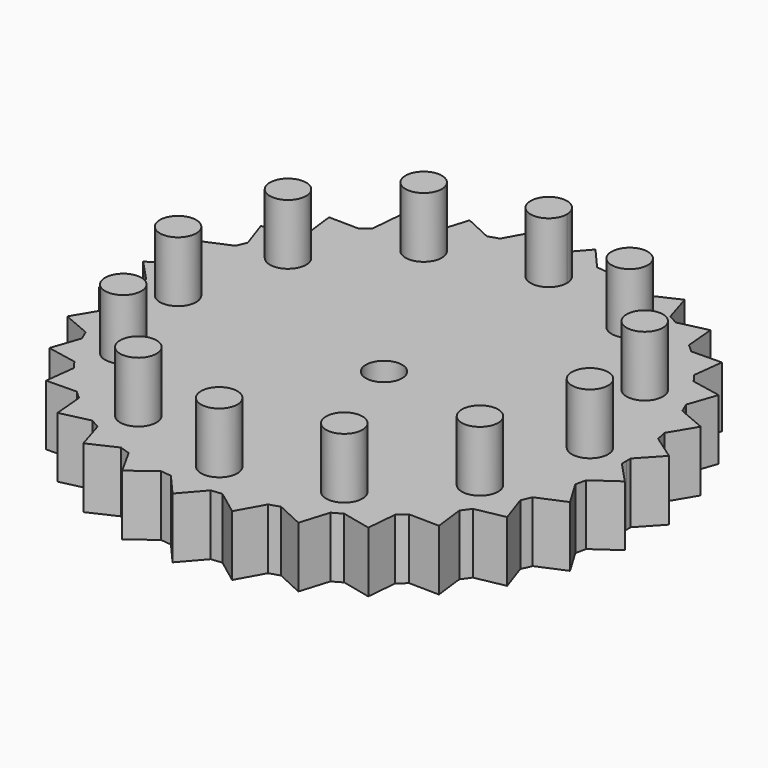
from build123d import *

# Parameters (mm, degrees)
F0_R     = 3.81
F1_DEPTH = 12.7
F2_R     = 3.81
F3_DEPTH = 12.7


with BuildPart() as f1:
    # F0 (on Top) → F1 (new body)
    with BuildSketch(Plane.XY):
        with BuildLine():
            ThreePointArc((50.787147, -1.142667), (50.796787, -0.57137), (50.8, 0))
            ThreePointArc((50.8, 0), (50.796787, 0.57137), (50.787147, 1.142667))
            ThreePointArc((50.787147, 1.142667), (50.521712, 5.310046), (49.9149, 9.441544))
            ThreePointArc((49.9149, 9.441544), (49.689898, 10.561914), (49.439752, 11.676939))
            ThreePointArc((49.439752, 11.676939), (48.313671, 15.698063), (46.861132, 19.613115))
            ThreePointArc((46.861132, 19.613115), (46.408109, 20.662221), (45.931603, 21.700872))
            ThreePointArc((45.931603, 21.700872), (43.994091, 25.4), (41.759308, 28.927499))
            ThreePointArc((41.759308, 28.927499), (41.098063, 29.859491), (40.416022, 30.776373))
            ThreePointArc((40.416022, 30.776373), (37.751757, 33.991835), (34.832402, 36.977612))
            ThreePointArc((34.832402, 36.977612), (33.991835, 37.751757), (33.134067, 38.506799))
            ThreePointArc((33.134067, 38.506799), (29.859491, 41.098063), (26.383152, 43.411626))
            ThreePointArc((26.383152, 43.411626), (25.4, 43.994091), (24.403995, 44.554293))
            ThreePointArc((24.403995, 44.554293), (20.662221, 46.408109), (16.780833, 47.948344))
            ThreePointArc((16.780833, 47.948344), (15.698063, 48.313671), (14.60735, 48.654551))
            ThreePointArc((14.60735, 48.654551), (10.561914, 49.689898), (6.44511, 50.389489))
            ThreePointArc((6.44511, 50.389489), (5.310046, 50.521712), (4.172295, 50.628371))
            ThreePointArc((4.172295, 50.628371), (0, 50.8), (-4.172295, 50.628371))
            ThreePointArc((-4.172295, 50.628371), (-5.310046, 50.521712), (-6.44511, 50.389489))
            ThreePointArc((-6.44511, 50.389489), (-10.561914, 49.689898), (-14.60735, 48.654551))
            ThreePointArc((-14.60735, 48.654551), (-15.698063, 48.313671), (-16.780833, 47.948344))
            ThreePointArc((-16.780833, 47.948344), (-20.662221, 46.408109), (-24.403995, 44.554293))
            ThreePointArc((-24.403995, 44.554293), (-25.4, 43.994091), (-26.383152, 43.411626))
            ThreePointArc((-26.383152, 43.411626), (-29.859491, 41.098063), (-33.134067, 38.506799))
            ThreePointArc((-33.134067, 38.506799), (-33.991835, 37.751757), (-34.832402, 36.977612))
            ThreePointArc((-34.832402, 36.977612), (-37.751757, 33.991835), (-40.416022, 30.776373))
            ThreePointArc((-40.416022, 30.776373), (-41.098063, 29.859491), (-41.759308, 28.927499))
            ThreePointArc((-41.759308, 28.927499), (-43.994091, 25.4), (-45.931603, 21.700872))
            ThreePointArc((-45.931603, 21.700872), (-46.408109, 20.662221), (-46.861132, 19.613115))
            ThreePointArc((-46.861132, 19.613115), (-48.313671, 15.698063), (-49.439752, 11.676939))
            ThreePointArc((-49.439752, 11.676939), (-49.689898, 10.561914), (-49.9149, 9.441544))
            ThreePointArc((-49.9149, 9.441544), (-50.521712, 5.310046), (-50.787147, 1.142667))
            ThreePointArc((-50.787147, 1.142667), (-50.8, 0), (-50.787147, -1.142667))
            ThreePointArc((-50.787147, -1.142667), (-50.521712, -5.310046), (-49.9149, -9.441544))
            ThreePointArc((-49.9149, -9.441544), (-49.689898, -10.561914), (-49.439752, -11.676939))
            ThreePointArc((-49.439752, -11.676939), (-48.313671, -15.698063), (-46.861132, -19.613115))
            ThreePointArc((-46.861132, -19.613115), (-46.408109, -20.662221), (-45.931603, -21.700872))
            ThreePointArc((-45.931603, -21.700872), (-43.994091, -25.4), (-41.759308, -28.927499))
            ThreePointArc((-41.759308, -28.927499), (-41.098063, -29.859491), (-40.416022, -30.776373))
            ThreePointArc((-40.416022, -30.776373), (-37.751757, -33.991835), (-34.832402, -36.977612))
            ThreePointArc((-34.832402, -36.977612), (-33.991835, -37.751757), (-33.134067, -38.506799))
            ThreePointArc((-33.134067, -38.506799), (-29.859491, -41.098063), (-26.383152, -43.411626))
            ThreePointArc((-26.383152, -43.411626), (-25.4, -43.994091), (-24.403995, -44.554293))
            ThreePointArc((-24.403995, -44.554293), (-20.662221, -46.408109), (-16.780833, -47.948344))
            ThreePointArc((-16.780833, -47.948344), (-15.698063, -48.313671), (-14.60735, -48.654551))
            ThreePointArc((-14.60735, -48.654551), (-10.561914, -49.689898), (-6.44511, -50.389489))
            ThreePointArc((-6.44511, -50.389489), (-5.310046, -50.521712), (-4.172295, -50.628371))
            ThreePointArc((-4.172295, -50.628371), (0, -50.8), (4.172295, -50.628371))
            ThreePointArc((4.172295, -50.628371), (5.310046, -50.521712), (6.44511, -50.389489))
            ThreePointArc((6.44511, -50.389489), (10.561914, -49.689898), (14.60735, -48.654551))
            ThreePointArc((14.60735, -48.654551), (15.698063, -48.313671), (16.780833, -47.948344))
            ThreePointArc((16.780833, -47.948344), (20.662221, -46.408109), (24.403995, -44.554293))
            ThreePointArc((24.403995, -44.554293), (25.4, -43.994091), (26.383152, -43.411626))
            ThreePointArc((26.383152, -43.411626), (29.859491, -41.098063), (33.134067, -38.506799))
            ThreePointArc((33.134067, -38.506799), (33.991835, -37.751757), (34.832402, -36.977612))
            ThreePointArc((34.832402, -36.977612), (37.751757, -33.991835), (40.416022, -30.776373))
            ThreePointArc((40.416022, -30.776373), (41.098063, -29.859491), (41.759308, -28.927499))
            ThreePointArc((41.759308, -28.927499), (43.994091, -25.4), (45.931603, -21.700872))
            ThreePointArc((45.931603, -21.700872), (46.408109, -20.662221), (46.861132, -19.613115))
            ThreePointArc((46.861132, -19.613115), (48.313671, -15.698063), (49.439752, -11.676939))
            ThreePointArc((49.439752, -11.676939), (49.689898, -10.561914), (49.9149, -9.441544))
            ThreePointArc((49.9149, -9.441544), (50.521712, -5.310046), (50.787147, -1.142667))
        make_face()
        Circle(F0_R, mode=Mode.SUBTRACT)
        with BuildLine():
            ThreePointArc((49.9149, 9.441544), (50.521712, 5.310046), (50.787147, 1.142667))
            Line((50.787147, 1.142667), (55.111705, 5.792474))
            Line((55.111705, 5.792474), (49.9149, 9.441544))
        make_face()
        with BuildLine():
            Line((55.111705, -5.792474), (50.787147, -1.142667))
            ThreePointArc((50.787147, -1.142667), (50.521712, -5.310046), (49.9149, -9.441544))
            Line((49.9149, -9.441544), (55.111705, -5.792474))
        make_face()
        with BuildLine():
            ThreePointArc((46.861132, 19.613115), (48.313671, 15.698063), (49.439752, 11.676939))
            Line((49.439752, 11.676939), (52.703059, 17.124262))
            Line((52.703059, 17.124262), (46.861132, 19.613115))
        make_face()
        with BuildLine():
            Line((52.703059, -17.124262), (49.439752, -11.676939))
            ThreePointArc((49.439752, -11.676939), (48.313671, -15.698063), (46.861132, -19.613115))
            Line((46.861132, -19.613115), (52.703059, -17.124262))
        make_face()
        with BuildLine():
            ThreePointArc((41.759308, 28.927499), (43.994091, 25.4), (45.931603, 21.700872))
            Line((45.931603, 21.700872), (47.991036, 27.707638))
            Line((47.991036, 27.707638), (41.759308, 28.927499))
        make_face()
        with BuildLine():
            Line((47.991036, -27.707638), (45.931603, -21.700872))
            ThreePointArc((45.931603, -21.700872), (43.994091, -25.4), (41.759308, -28.927499))
            Line((41.759308, -28.927499), (47.991036, -27.707638))
        make_face()
        with BuildLine():
            ThreePointArc((34.832402, 36.977612), (37.751757, 33.991835), (40.416022, 30.776373))
            Line((40.416022, 30.776373), (41.181575, 37.080057))
            Line((41.181575, 37.080057), (34.832402, 36.977612))
        make_face()
        with BuildLine():
            Line((41.181575, -37.080057), (40.416022, -30.776373))
            ThreePointArc((40.416022, -30.776373), (37.751757, -33.991835), (34.832402, -36.977612))
            Line((34.832402, -36.977612), (41.181575, -37.080057))
        make_face()
        with BuildLine():
            ThreePointArc((26.383152, 43.411626), (29.859491, 41.098063), (33.134067, 38.506799))
            Line((33.134067, 38.506799), (32.572282, 44.8319))
            Line((32.572282, 44.8319), (26.383152, 43.411626))
        make_face()
        with BuildLine():
            Line((32.572282, -44.8319), (33.134067, -38.506799))
            ThreePointArc((33.134067, -38.506799), (29.859491, -41.098063), (26.383152, -43.411626))
            Line((26.383152, -43.411626), (32.572282, -44.8319))
        make_face()
        with BuildLine():
            ThreePointArc((16.780833, 47.948344), (20.662221, 46.408109), (24.403995, 44.554293))
            Line((24.403995, 44.554293), (22.539423, 50.624373))
            Line((22.539423, 50.624373), (16.780833, 47.948344))
        make_face()
        with BuildLine():
            Line((22.539423, -50.624373), (24.403995, -44.554293))
            ThreePointArc((24.403995, -44.554293), (20.662221, -46.408109), (16.780833, -47.948344))
            Line((16.780833, -47.948344), (22.539423, -50.624373))
        make_face()
        with BuildLine():
            ThreePointArc((6.44511, 50.389489), (10.561914, 49.689898), (14.60735, 48.654551))
            Line((14.60735, 48.654551), (11.521484, 54.204319))
            Line((11.521484, 54.204319), (6.44511, 50.389489))
        make_face()
        with BuildLine():
            Line((11.521484, -54.204319), (14.60735, -48.654551))
            ThreePointArc((14.60735, -48.654551), (10.561914, -49.689898), (6.44511, -50.389489))
            Line((6.44511, -50.389489), (11.521484, -54.204319))
        make_face()
        with BuildLine():
            ThreePointArc((-4.172295, 50.628371), (0, 50.8), (4.172295, 50.628371))
            Line((4.172295, 50.628371), (0, 55.415276))
            Line((0, 55.415276), (-4.172295, 50.628371))
        make_face()
        with BuildLine():
            Line((0, -55.415276), (4.172295, -50.628371))
            ThreePointArc((4.172295, -50.628371), (0, -50.8), (-4.172295, -50.628371))
            Line((-4.172295, -50.628371), (0, -55.415276))
        make_face()
        with BuildLine():
            ThreePointArc((-14.60735, 48.654551), (-10.561914, 49.689898), (-6.44511, 50.389489))
            Line((-6.44511, 50.389489), (-11.521484, 54.204319))
            Line((-11.521484, 54.204319), (-14.60735, 48.654551))
        make_face()
        with BuildLine():
            Line((-11.521484, -54.204319), (-6.44511, -50.389489))
            ThreePointArc((-6.44511, -50.389489), (-10.561914, -49.689898), (-14.60735, -48.654551))
            Line((-14.60735, -48.654551), (-11.521484, -54.204319))
        make_face()
        with BuildLine():
            ThreePointArc((-24.403995, 44.554293), (-20.662221, 46.408109), (-16.780833, 47.948344))
            Line((-16.780833, 47.948344), (-22.539423, 50.624373))
            Line((-22.539423, 50.624373), (-24.403995, 44.554293))
        make_face()
        with BuildLine():
            Line((-22.539423, -50.624373), (-16.780833, -47.948344))
            ThreePointArc((-16.780833, -47.948344), (-20.662221, -46.408109), (-24.403995, -44.554293))
            Line((-24.403995, -44.554293), (-22.539423, -50.624373))
        make_face()
        with BuildLine():
            ThreePointArc((-33.134067, 38.506799), (-29.859491, 41.098063), (-26.383152, 43.411626))
            Line((-26.383152, 43.411626), (-32.572282, 44.8319))
            Line((-32.572282, 44.8319), (-33.134067, 38.506799))
        make_face()
        with BuildLine():
            Line((-32.572282, -44.8319), (-26.383152, -43.411626))
            ThreePointArc((-26.383152, -43.411626), (-29.859491, -41.098063), (-33.134067, -38.506799))
            Line((-33.134067, -38.506799), (-32.572282, -44.8319))
        make_face()
        with BuildLine():
            ThreePointArc((-40.416022, 30.776373), (-37.751757, 33.991835), (-34.832402, 36.977612))
            Line((-34.832402, 36.977612), (-41.181575, 37.080057))
            Line((-41.181575, 37.080057), (-40.416022, 30.776373))
        make_face()
        with BuildLine():
            Line((-41.181575, -37.080057), (-34.832402, -36.977612))
            ThreePointArc((-34.832402, -36.977612), (-37.751757, -33.991835), (-40.416022, -30.776373))
            Line((-40.416022, -30.776373), (-41.181575, -37.080057))
        make_face()
        with BuildLine():
            ThreePointArc((-45.931603, 21.700872), (-43.994091, 25.4), (-41.759308, 28.927499))
            Line((-41.759308, 28.927499), (-47.991036, 27.707638))
            Line((-47.991036, 27.707638), (-45.931603, 21.700872))
        make_face()
        with BuildLine():
            Line((-47.991036, -27.707638), (-41.759308, -28.927499))
            ThreePointArc((-41.759308, -28.927499), (-43.994091, -25.4), (-45.931603, -21.700872))
            Line((-45.931603, -21.700872), (-47.991036, -27.707638))
        make_face()
        with BuildLine():
            ThreePointArc((-49.439752, 11.676939), (-48.313671, 15.698063), (-46.861132, 19.613115))
            Line((-46.861132, 19.613115), (-52.703059, 17.124262))
            Line((-52.703059, 17.124262), (-49.439752, 11.676939))
        make_face()
        with BuildLine():
            Line((-52.703059, -17.124262), (-46.861132, -19.613115))
            ThreePointArc((-46.861132, -19.613115), (-48.313671, -15.698063), (-49.439752, -11.676939))
            Line((-49.439752, -11.676939), (-52.703059, -17.124262))
        make_face()
        with BuildLine():
            ThreePointArc((-50.787147, 1.142667), (-50.521712, 5.310046), (-49.9149, 9.441544))
            Line((-49.9149, 9.441544), (-55.111705, 5.792474))
            Line((-55.111705, 5.792474), (-50.787147, 1.142667))
        make_face()
        with BuildLine():
            Line((-55.111705, -5.792474), (-49.9149, -9.441544))
            ThreePointArc((-49.9149, -9.441544), (-50.521712, -5.310046), (-50.787147, -1.142667))
            Line((-50.787147, -1.142667), (-55.111705, -5.792474))
        make_face()
    extrude(amount=F1_DEPTH)

    # F2 (on face) → F3 (join)
    with BuildSketch(Plane.XY.offset(12.7)):
        with Locations((-21.59, -37.394977)):
            Circle(F2_R)
        with Locations((-37.394977, -21.59)):
            Circle(F2_R)
        with Locations((-43.18, 0)):
            Circle(F2_R)
        with Locations((-37.394977, 21.59)):
            Circle(F2_R)
        with Locations((-21.59, 37.394977)):
            Circle(F2_R)
        with BuildLine():
            ThreePointArc((0, 46.99), (-2.694077, 40.485923), (3.81, 43.18))
            ThreePointArc((3.81, 43.18), (2.694077, 45.874077), (0, 46.99))
        make_face()
        with Locations((21.59, 37.394977)):
            Circle(F2_R)
        with Locations((37.394977, 21.59)):
            Circle(F2_R)
        with Locations((43.18, 0)):
            Circle(F2_R)
        with Locations((37.394977, -21.59)):
            Circle(F2_R)
        with Locations((21.59, -37.394977)):
            Circle(F2_R)
        with Locations((0, -43.18)):
            Circle(F2_R)
    extrude(amount=F3_DEPTH)


solid = f1.part
